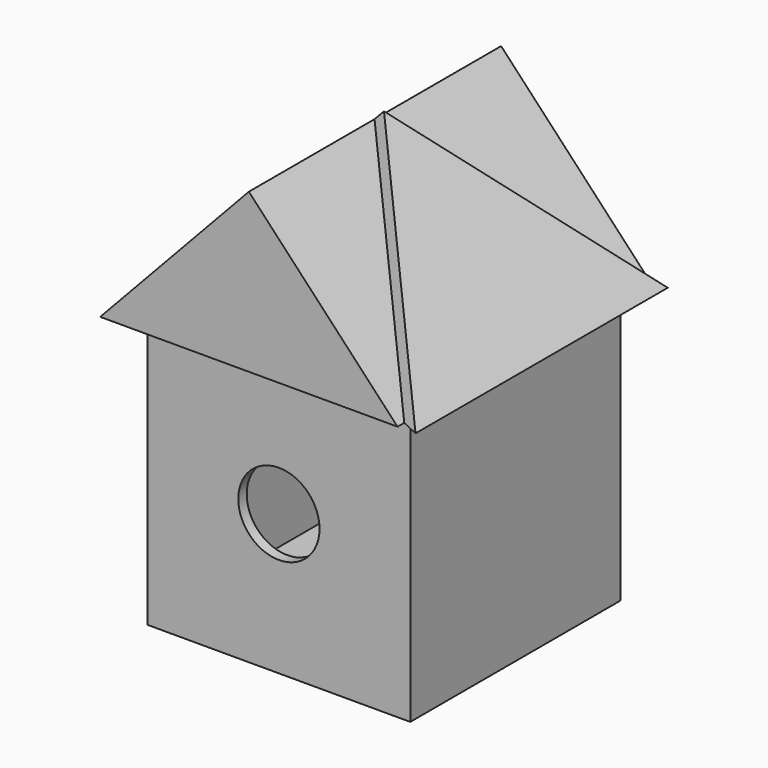
from build123d import *

# Parameters (mm, degrees)
F0_W      = 500
F0_H      = 500
F1_DEPTH  = 20
F2_W      = 500
F2_H      = 500
F2_W_2    = 460
F2_H_2    = 460
F3_DEPTH  = 500
F4_R      = 77.3069770254
F5_DEPTH  = 500.001
F6_W      = 600
F6_H      = 600
F7_DEPTH  = 20
F8_DEPTH  = 300
F10_DEPTH = 600.001
F12_DEPTH = 25


with BuildPart() as f1:
    # F0 (on Top) → F1 (new body)
    with BuildSketch(Plane.XY):
        Rectangle(F0_W, F0_H)
    extrude(amount=F1_DEPTH)

    # F2 (on face) → F3 (join)
    with BuildSketch(Plane.XY.offset(20)):
        Rectangle(F2_W, F2_H)
        Rectangle(F2_W_2, F2_H_2, mode=Mode.SUBTRACT)
    extrude(amount=F3_DEPTH)

    # F4 (on face) → F5 (cut, through all)
    with BuildSketch(Plane.XZ.offset(250)):
        with Locations((0, 267.239511013)):
            Circle(F4_R)
    extrude(amount=-F5_DEPTH, mode=Mode.SUBTRACT)

    # F6 (on face) → F7 (join)
    with BuildSketch(Plane.XY.offset(520)):
        Rectangle(F6_W, F6_H)
    extrude(amount=F7_DEPTH)

    # F8 (add): a face of the model
    f8_faces = [f1.faces().sort_by_distance(p)[0] for p in [
        (0, 0, 540),
    ]]
    extrude(f8_faces, amount=F8_DEPTH)

    # F9 (on face) → F10 (cut, through all)
    with BuildSketch(Plane.XZ.offset(300)):
        Polygon((-300, 520), (0, 840), (-300, 840), align=None)
        Polygon((300, 840), (0, 840), (300, 520), align=None)
    extrude(amount=-F10_DEPTH, mode=Mode.SUBTRACT)

    # F11 (on face) → F12 (cut)
    with BuildSketch(Plane(origin=(419.1268191268, 0, 392.9313929314), x_dir=(0, 1, 0), z_dir=(0.7295372041, 0, 0.6839411289))):
        Polygon((-300, 174.1770074884), (0, 612.8112514777), (-300, 612.8112514777), align=None)
        Polygon((300, 612.8112514777), (0, 612.8112514777), (300, 174.1770074884), align=None)
    extrude(amount=-F12_DEPTH, mode=Mode.SUBTRACT)


solid = f1.part
